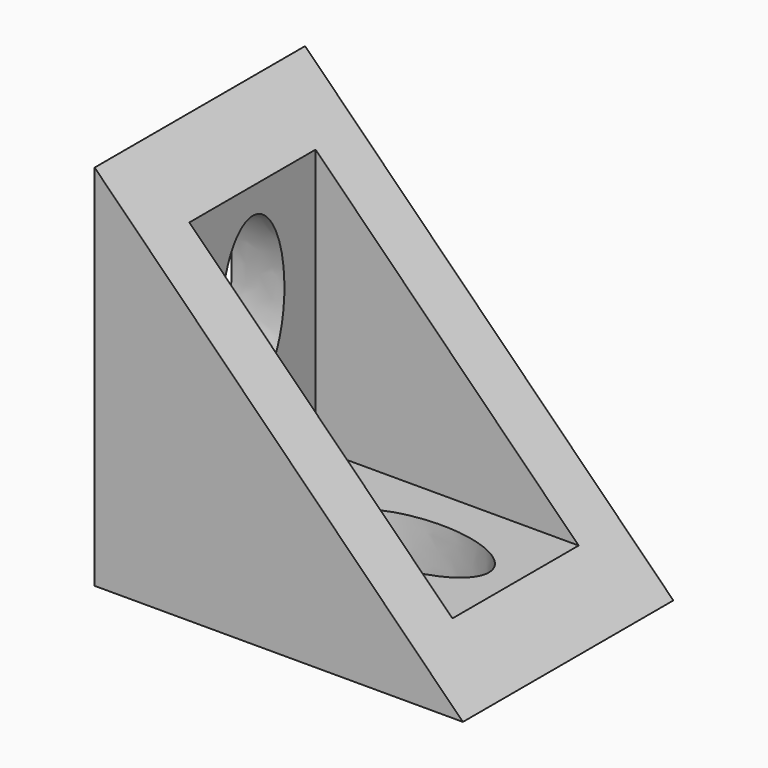
from build123d import *

# Parameters (mm, degrees)
F0_W      = 28
F0_H      = 28
F1_DEPTH  = 20
F2_W      = 20
F2_H      = 12
F3_DEPTH  = 24
F4_W      = 12
F4_H      = 20
F5_DEPTH  = 24
F7_DEPTH  = 20.001
F9_DEPTH  = 4.001
F11_DEPTH = 4.001
F12_W     = 6
F12_H     = 6
F13_DEPTH = 4
F14_W     = 6
F14_H     = 6
F15_DEPTH = 4


with BuildPart() as f1:
    # F0 (on Front) → F1 (new body)
    with BuildSketch(Plane.XZ):
        with Locations((-0.575359, 0.661765)):
            Rectangle(F0_W, F0_H)
    extrude(amount=F1_DEPTH)

    # F2 (on face) → F3 (cut)
    with BuildSketch(Plane.XY.offset(14.661765)):
        with Locations((-0.575359, -10)):
            Rectangle(F2_W, F2_H)
    extrude(amount=-F3_DEPTH, mode=Mode.SUBTRACT)

    # F4 (on face) → F5 (cut)
    with BuildSketch(Plane.YZ.offset(13.424641)):
        with Locations((-10, 0.661765)):
            Rectangle(F4_W, F4_H)
    extrude(amount=-F5_DEPTH, mode=Mode.SUBTRACT)

    # F6 (on face) → F7 (cut, through all)
    with BuildSketch(Plane.XZ.offset(20)):
        Polygon((13.424641, 14.661765), (-14.575359, 14.661765), (13.424641, -13.338235), align=None)
    extrude(amount=-F7_DEPTH, mode=Mode.SUBTRACT)

    # F8 (on face) → F9 (cut, through all)
    with BuildSketch(Plane.XY.offset(-9.338235)):
        with BuildLine():
            add(Edge.make_bspline(
                [(7.424687, -10.033242), (7.424687, -4.83709), (-1.575313, -7.435166), (-10.575313, -10.033242), (-1.575313, -12.631319), (7.424687, -15.229395), (7.424687, -10.033242)],
                knots=[0, 0, 0, 2.094395, 2.094395, 4.18879, 4.18879, 6.283185, 6.283185, 6.283185], degree=2, weights=[1, 0.5, 1, 0.5, 1, 0.5, 1]))
        make_face()
    extrude(amount=-F9_DEPTH, mode=Mode.SUBTRACT)

    # F10 (on face) → F11 (cut, through all)
    with BuildSketch(Plane.YZ.offset(-10.575359)):
        with BuildLine():
            add(Edge.make_bspline(
                [(-9.965221, -3.338235), (-4.769069, -3.338235), (-7.367145, 5.661765), (-9.965221, 14.661765), (-12.563298, 5.661765), (-15.161374, -3.338235), (-9.965221, -3.338235)],
                knots=[0, 0, 0, 2.094395, 2.094395, 4.18879, 4.18879, 6.283185, 6.283185, 6.283185], degree=2, weights=[1, 0.5, 1, 0.5, 1, 0.5, 1]))
        make_face()
    extrude(amount=-F11_DEPTH, mode=Mode.SUBTRACT)

    # F12 (on face) → F13 (join)
    with BuildSketch(Plane(origin=(-14.575359, 0, 0), x_dir=(0, -1, 0), z_dir=(-1, 0, 0))):
        with Locations((10.000001, -8.062312)):
            Rectangle(F12_W, F12_H)
    extrude(amount=F13_DEPTH)

    # F14 (on face) → F15 (join)
    with BuildSketch(Plane(origin=(0, 0, -13.338235), x_dir=(1, 0, 0), z_dir=(0, 0, -1))):
        with Locations((-9.199209, 10)):
            Rectangle(F14_W, F14_H)
    extrude(amount=F15_DEPTH)


solid = f1.part
